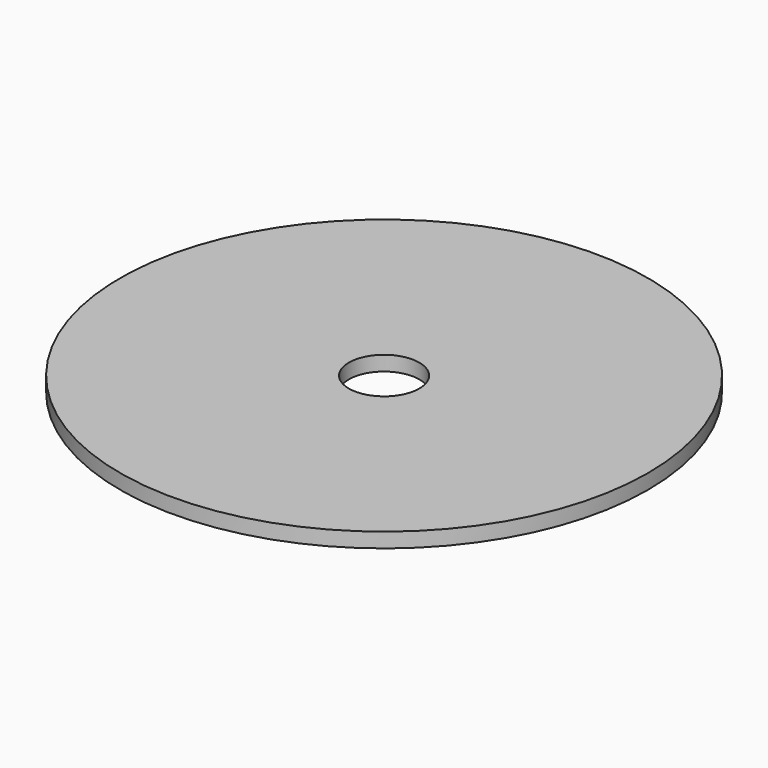
from build123d import *

# Parameters (mm, degrees)
F0_R     = 375
F1_DEPTH = 21
F3_D     = 100


with BuildPart() as f1:
    # F0 (on Top) → F1 (new body)
    with BuildSketch(Plane.XY):
        Circle(F0_R)
    extrude(amount=-F1_DEPTH)

    # F3 (through all)
    with Locations(Plane.XY):
        with Locations((0, 0)):
            Hole(F3_D / 2)


solid = f1.part
